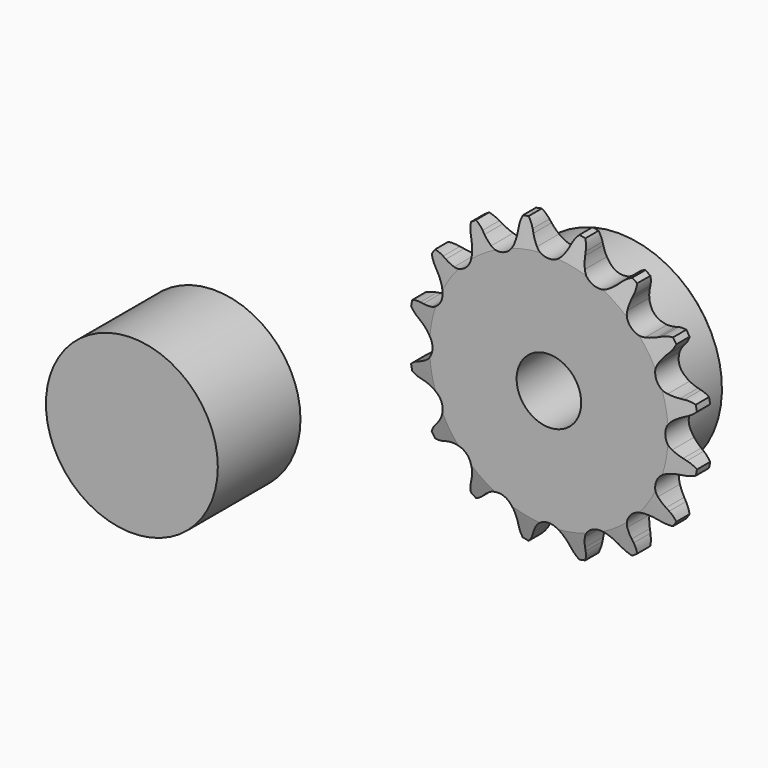
from build123d import *

# Parameters (mm, degrees)
F0_W     = 7.2136
F0_H     = 10.287
F0_H_2   = 17.4625
F0_W_2   = 15.0114
F2_R     = 1.5875
F3_SIZE  = 0.79375
F4_SIZE2 = 6.35
F4_SIZE  = 1.5748
F6_DEPTH = 22.226
F7_R     = 21.1304683884
F8_DEPTH = 25.4


with BuildPart() as f1:
    # F0 (on Right) → F1 (revolve)
    with BuildSketch(Plane.YZ):
        with Locations((3.6068, 30.5435)):
            Rectangle(F0_W, F0_H)
        with Locations((3.6068, 16.66875)):
            Rectangle(F0_W, F0_H_2)
        with Locations((14.7193, 16.66875)):
            Rectangle(F0_W_2, F0_H_2)
    revolve(axis=Axis((0, 11.1125, 0), (0, 1, 0)))

    # F2
    f2_edges = [f1.edges().sort_by_distance(p)[0] for p in [
        (0, 7.2136, -25.4),
    ]]
    fillet(f2_edges, radius=F2_R)

    # F3
    f3_edges = [f1.edges().sort_by_distance(p)[0] for p in [
        (0, 22.225, -25.4),
    ]]
    chamfer(f3_edges, length=F3_SIZE)

    # F4
    f4_edges = [f1.edges().sort_by_distance(p)[0] for p in [
        (0, 0, -35.687),
        (0, 7.2136, -35.687),
    ]]
    f4_side = f1.faces().sort_by_distance((0, 3.6068, -35.687))[0]
    chamfer(f4_edges, length=F4_SIZE, length2=F4_SIZE2, reference=f4_side)

    # F5 (on face) → F6 (intersect, through all)
    with BuildSketch(Plane.XZ):
        with BuildLine():
            Line((-4.4491154557, 32.3031532905), (-4.8086431229, 33.1012751164))
            ThreePointArc((-4.8086431229, 33.1012751164), (-5.7770661821, 34.6486769377), (-7.1327732706, 35.8711146287))
            ThreePointArc((-7.1327732706, 35.8711146287), (-7.9137060705, 34.2329723602), (-8.218308823, 32.4439549502))
            Line((-8.218308823, 32.4439549502), (-8.2450410763, 31.5690012491))
            ThreePointArc((-8.2450410763, 31.5690012491), (-8.3668256308, 30.2704534687), (-8.6507487346, 28.9974862709))
            ThreePointArc((-8.6507487346, 28.9974862709), (-10.9342442685, 26.4277558033), (-14.3671139694, 26.6101623444))
            ThreePointArc((-14.3671139694, 26.6101623444), (-15.4680016592, 27.3095221302), (-16.4723282847, 28.1416193871))
            Line((-16.4723282847, 28.1416193871), (-17.1099165376, 28.7414025248))
            ThreePointArc((-17.1099165376, 28.7414025248), (-18.5967878211, 29.8004159357), (-20.3171045036, 30.4109944563))
            ThreePointArc((-20.3171045036, 30.4109944563), (-20.4117024277, 28.5986982988), (-20.0084913533, 26.8292953036))
            Line((-20.0084913533, 26.8292953036), (-19.6983584495, 26.0107134968))
            ThreePointArc((-19.6983584495, 26.0107134968), (-19.3139399851, 24.7644068492), (-19.0891072729, 23.4796858417))
            ThreePointArc((-19.0891072729, 23.4796858417), (-20.2153887837, 20.2317085499), (-23.4567507993, 19.0865278598))
            ThreePointArc((-23.4567507993, 19.0865278598), (-24.7414718069, 19.311360572), (-25.9877784545, 19.6957790364))
            Line((-25.9877784545, 19.6957790364), (-26.8063602612, 20.0059119402))
            ThreePointArc((-26.8063602612, 20.0059119402), (-28.5853170945, 20.415311749), (-30.408340751, 20.3210760543))
            ThreePointArc((-30.408340751, 20.3210760543), (-29.8022021228, 18.6105316692), (-28.7525624525, 17.1301186552))
            Line((-28.7525624525, 17.1301186552), (-28.1527793148, 16.4925304023))
            ThreePointArc((-28.1527793148, 16.4925304023), (-27.3206820579, 15.4882037768), (-26.6213222721, 14.3873160869))
            ThreePointArc((-26.6213222721, 14.3873160869), (-26.4189236095, 10.9555670707), (-28.9753099561, 8.6571425284))
            ThreePointArc((-28.9753099561, 8.6571425284), (-30.2482771539, 8.3732194246), (-31.5468249343, 8.2514348701))
            Line((-31.5468249343, 8.2514348701), (-32.4217786354, 8.2247026168))
            ThreePointArc((-32.4217786354, 8.2247026168), (-34.2219909669, 7.9221614138), (-35.8701827713, 7.1374580341))
            ThreePointArc((-35.8701827713, 7.1374580341), (-34.6555867024, 5.789080298), (-33.1193165609, 4.8230367264))
            Line((-33.1193165609, 4.8230367264), (-32.321194735, 4.4635090592))
            ThreePointArc((-32.321194735, 4.4635090592), (-31.16809795, 3.8540620803), (-30.1006822783, 3.1046078793))
            ThreePointArc((-30.1006822783, 3.1046078793), (-28.6004168039, 0.0115398174), (-30.0826408338, -3.0902142758))
            ThreePointArc((-30.0826408338, -3.0902142758), (-31.1500565056, -3.8396684768), (-32.3031532905, -4.4491154557))
            Line((-32.3031532905, -4.4491154557), (-33.1012751164, -4.8086431229))
            ThreePointArc((-33.1012751164, -4.8086431229), (-34.6486769377, -5.7770661821), (-35.8711146287, -7.1327732706))
            ThreePointArc((-35.8711146287, -7.1327732706), (-34.2329723602, -7.9137060705), (-32.4439549502, -8.218308823))
            Line((-32.4439549502, -8.218308823), (-31.5690012491, -8.2450410763))
            ThreePointArc((-31.5690012491, -8.2450410763), (-30.2704534687, -8.3668256308), (-28.9974862709, -8.6507487346))
            ThreePointArc((-28.9974862709, -8.6507487346), (-26.4277558033, -10.9342442685), (-26.6101623444, -14.3671139694))
            ThreePointArc((-26.6101623444, -14.3671139694), (-27.3095221302, -15.4680016592), (-28.1416193871, -16.4723282847))
            Line((-28.1416193871, -16.4723282847), (-28.7414025248, -17.1099165376))
            ThreePointArc((-28.7414025248, -17.1099165376), (-29.8004159357, -18.5967878211), (-30.4109944563, -20.3171045036))
            ThreePointArc((-30.4109944563, -20.3171045036), (-28.5986982988, -20.4117024277), (-26.8292953036, -20.0084913533))
            Line((-26.8292953036, -20.0084913533), (-26.0107134968, -19.6983584495))
            ThreePointArc((-26.0107134968, -19.6983584495), (-24.7644068492, -19.3139399851), (-23.4796858417, -19.0891072729))
            ThreePointArc((-23.4796858417, -19.0891072729), (-20.2317085499, -20.2153887837), (-19.0865278598, -23.4567507993))
            ThreePointArc((-19.0865278598, -23.4567507993), (-19.311360572, -24.7414718069), (-19.6957790364, -25.9877784545))
            Line((-19.6957790364, -25.9877784545), (-20.0059119402, -26.8063602612))
            ThreePointArc((-20.0059119402, -26.8063602612), (-20.415311749, -28.5853170945), (-20.3210760543, -30.408340751))
            ThreePointArc((-20.3210760543, -30.408340751), (-18.6105316692, -29.8022021228), (-17.1301186552, -28.7525624525))
            Line((-17.1301186552, -28.7525624525), (-16.4925304023, -28.1527793148))
            ThreePointArc((-16.4925304023, -28.1527793148), (-15.4882037768, -27.3206820579), (-14.3873160869, -26.6213222721))
            ThreePointArc((-14.3873160869, -26.6213222721), (-10.9555670707, -26.4189236095), (-8.6571425284, -28.9753099561))
            ThreePointArc((-8.6571425284, -28.9753099561), (-8.3732194246, -30.2482771539), (-8.2514348701, -31.5468249343))
            Line((-8.2514348701, -31.5468249343), (-8.2247026168, -32.4217786354))
            ThreePointArc((-8.2247026168, -32.4217786354), (-7.9221614138, -34.2219909669), (-7.1374580341, -35.8701827713))
            ThreePointArc((-7.1374580341, -35.8701827713), (-5.789080298, -34.6555867024), (-4.8230367264, -33.1193165609))
            Line((-4.8230367264, -33.1193165609), (-4.4635090592, -32.321194735))
            ThreePointArc((-4.4635090592, -32.321194735), (-3.8540620803, -31.16809795), (-3.1046078793, -30.1006822783))
            ThreePointArc((-3.1046078793, -30.1006822783), (-0.0115398174, -28.6004168039), (3.0902142758, -30.0826408338))
            ThreePointArc((3.0902142758, -30.0826408338), (3.8396684768, -31.1500565056), (4.4491154557, -32.3031532905))
            Line((4.4491154557, -32.3031532905), (4.8086431229, -33.1012751164))
            ThreePointArc((4.8086431229, -33.1012751164), (5.7770661821, -34.6486769377), (7.1327732706, -35.8711146287))
            ThreePointArc((7.1327732706, -35.8711146287), (7.9137060705, -34.2329723602), (8.218308823, -32.4439549502))
            Line((8.218308823, -32.4439549502), (8.2450410763, -31.5690012491))
            ThreePointArc((8.2450410763, -31.5690012491), (8.3668256308, -30.2704534687), (8.6507487346, -28.9974862709))
            ThreePointArc((8.6507487346, -28.9974862709), (10.9342442685, -26.4277558033), (14.3671139694, -26.6101623444))
            ThreePointArc((14.3671139694, -26.6101623444), (15.4680016592, -27.3095221302), (16.4723282847, -28.1416193871))
            Line((16.4723282847, -28.1416193871), (17.1099165376, -28.7414025248))
            ThreePointArc((17.1099165376, -28.7414025248), (18.5967878211, -29.8004159357), (20.3171045036, -30.4109944563))
            ThreePointArc((20.3171045036, -30.4109944563), (20.4117024277, -28.5986982988), (20.0084913533, -26.8292953036))
            Line((20.0084913533, -26.8292953036), (19.6983584495, -26.0107134968))
            ThreePointArc((19.6983584495, -26.0107134968), (19.3139399851, -24.7644068492), (19.0891072729, -23.4796858417))
            ThreePointArc((19.0891072729, -23.4796858417), (20.2153887837, -20.2317085499), (23.4567507993, -19.0865278598))
            ThreePointArc((23.4567507993, -19.0865278598), (24.7414718069, -19.311360572), (25.9877784545, -19.6957790364))
            Line((25.9877784545, -19.6957790364), (26.8063602612, -20.0059119402))
            ThreePointArc((26.8063602612, -20.0059119402), (28.5853170945, -20.415311749), (30.408340751, -20.3210760543))
            ThreePointArc((30.408340751, -20.3210760543), (29.8022021228, -18.6105316692), (28.7525624525, -17.1301186552))
            Line((28.7525624525, -17.1301186552), (28.1527793148, -16.4925304023))
            ThreePointArc((28.1527793148, -16.4925304023), (27.3206820579, -15.4882037768), (26.6213222721, -14.3873160869))
            ThreePointArc((26.6213222721, -14.3873160869), (26.4189236095, -10.9555670707), (28.9753099561, -8.6571425284))
            ThreePointArc((28.9753099561, -8.6571425284), (30.2482771539, -8.3732194246), (31.5468249343, -8.2514348701))
            Line((31.5468249343, -8.2514348701), (32.4217786354, -8.2247026168))
            ThreePointArc((32.4217786354, -8.2247026168), (34.2219909669, -7.9221614138), (35.8701827713, -7.1374580341))
            ThreePointArc((35.8701827713, -7.1374580341), (34.6555867024, -5.789080298), (33.1193165609, -4.8230367264))
            Line((33.1193165609, -4.8230367264), (32.321194735, -4.4635090592))
            ThreePointArc((32.321194735, -4.4635090592), (31.16809795, -3.8540620803), (30.1006822783, -3.1046078793))
            ThreePointArc((30.1006822783, -3.1046078793), (28.6004168039, -0.0115398174), (30.0826408338, 3.0902142758))
            ThreePointArc((30.0826408338, 3.0902142758), (31.1500565056, 3.8396684768), (32.3031532905, 4.4491154557))
            Line((32.3031532905, 4.4491154557), (33.1012751164, 4.8086431229))
            ThreePointArc((33.1012751164, 4.8086431229), (34.6486769377, 5.7770661821), (35.8711146287, 7.1327732706))
            ThreePointArc((35.8711146287, 7.1327732706), (34.2329723602, 7.9137060705), (32.4439549502, 8.218308823))
            Line((32.4439549502, 8.218308823), (31.5690012491, 8.2450410763))
            ThreePointArc((31.5690012491, 8.2450410763), (30.2704534687, 8.3668256308), (28.9974862709, 8.6507487346))
            ThreePointArc((28.9974862709, 8.6507487346), (26.4277558033, 10.9342442685), (26.6101623444, 14.3671139694))
            ThreePointArc((26.6101623444, 14.3671139694), (27.3095221302, 15.4680016592), (28.1416193871, 16.4723282847))
            Line((28.1416193871, 16.4723282847), (28.7414025248, 17.1099165376))
            ThreePointArc((28.7414025248, 17.1099165376), (29.8004159357, 18.5967878211), (30.4109944563, 20.3171045036))
            ThreePointArc((30.4109944563, 20.3171045036), (28.5986982988, 20.4117024277), (26.8292953036, 20.0084913533))
            Line((26.8292953036, 20.0084913533), (26.0107134968, 19.6983584495))
            ThreePointArc((26.0107134968, 19.6983584495), (24.7644068492, 19.3139399851), (23.4796858417, 19.0891072729))
            ThreePointArc((23.4796858417, 19.0891072729), (20.2317085499, 20.2153887837), (19.0865278598, 23.4567507993))
            ThreePointArc((19.0865278598, 23.4567507993), (19.311360572, 24.7414718069), (19.6957790364, 25.9877784545))
            Line((19.6957790364, 25.9877784545), (20.0059119402, 26.8063602612))
            ThreePointArc((20.0059119402, 26.8063602612), (20.415311749, 28.5853170945), (20.3210760543, 30.408340751))
            ThreePointArc((20.3210760543, 30.408340751), (18.6105316692, 29.8022021228), (17.1301186552, 28.7525624525))
            Line((17.1301186552, 28.7525624525), (16.4925304023, 28.1527793148))
            ThreePointArc((16.4925304023, 28.1527793148), (15.4882037768, 27.3206820579), (14.3873160869, 26.6213222721))
            ThreePointArc((14.3873160869, 26.6213222721), (10.9555670707, 26.4189236095), (8.6571425284, 28.9753099561))
            ThreePointArc((8.6571425284, 28.9753099561), (8.3732194246, 30.2482771539), (8.2514348701, 31.5468249343))
            Line((8.2514348701, 31.5468249343), (8.2247026168, 32.4217786354))
            ThreePointArc((8.2247026168, 32.4217786354), (7.9221614138, 34.2219909669), (7.1374580341, 35.8701827713))
            ThreePointArc((7.1374580341, 35.8701827713), (5.789080298, 34.6555867024), (4.8230367264, 33.1193165609))
            Line((4.8230367264, 33.1193165609), (4.4635090592, 32.321194735))
            ThreePointArc((4.4635090592, 32.321194735), (3.8540620803, 31.16809795), (3.1046078793, 30.1006822783))
            ThreePointArc((3.1046078793, 30.1006822783), (0.0115398174, 28.6004168039), (-3.0902142758, 30.0826408338))
            ThreePointArc((-3.0902142758, 30.0826408338), (-3.8396684768, 31.1500565056), (-4.4491154557, 32.3031532905))
        make_face()
    extrude(amount=-F6_DEPTH, mode=Mode.INTERSECT)


with BuildPart() as f8:
    # F7 (on Front) → F8 (new body)
    with BuildSketch(Plane.XZ):
        with Locations((-82.1982622147, -26.0557141155)):
            Circle(F7_R)
    extrude(amount=F8_DEPTH)


solid = Compound([f1.part, f8.part])
